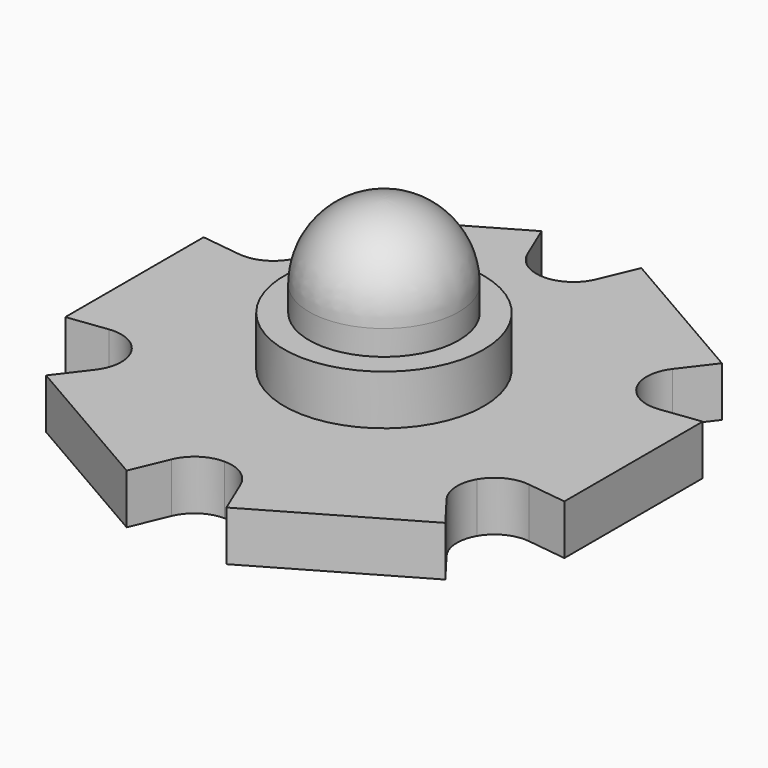
from build123d import *

# Parameters (mm, degrees)
F1_DEPTH = 2
F2_R     = 4
F3_DEPTH = 2


with BuildPart() as f1:
    # F0 (on Top) → F1 (new body)
    with BuildSketch(Plane.XY):
        with BuildLine():
            ThreePointArc((-1.383542, -8.920507), (-0.830891, -8.251153), (0, -8))
            ThreePointArc((0, -8), (0.830891, -8.251153), (1.383542, -8.920507))
            Line((1.383542, -8.920507), (2, -10.392305))
            Line((2, -10.392305), (8, -6.928203))
            Line((8, -6.928203), (7.033615, -5.658436))
            ThreePointArc((7.033615, -5.658436), (6.730262, -4.84515), (6.928203, -4))
            ThreePointArc((6.928203, -4), (7.561154, -3.406003), (8.417157, -3.262071))
            Line((8.417157, -3.262071), (10, -3.464102))
            Line((10, -3.464102), (10, 3.464102))
            Line((10, 3.464102), (8.417157, 3.262071))
            ThreePointArc((8.417157, 3.262071), (7.561154, 3.406003), (6.928203, 4))
            ThreePointArc((6.928203, 4), (6.730262, 4.84515), (7.033615, 5.658436))
            Line((7.033615, 5.658436), (8, 6.928203))
            Line((8, 6.928203), (2, 10.392305))
            Line((2, 10.392305), (1.383542, 8.920507))
            ThreePointArc((1.383542, 8.920507), (0.830891, 8.251153), (0, 8))
            ThreePointArc((0, 8), (-0.830891, 8.251153), (-1.383542, 8.920507))
            Line((-1.383542, 8.920507), (-2, 10.392305))
            Line((-2, 10.392305), (-8, 6.928203))
            Line((-8, 6.928203), (-7.033615, 5.658436))
            ThreePointArc((-7.033615, 5.658436), (-6.730262, 4.84515), (-6.928203, 4))
            ThreePointArc((-6.928203, 4), (-7.561154, 3.406003), (-8.417157, 3.262071))
            Line((-8.417157, 3.262071), (-10, 3.464102))
            Line((-10, 3.464102), (-10, -3.464102))
            Line((-10, -3.464102), (-8.417157, -3.262071))
            ThreePointArc((-8.417157, -3.262071), (-7.561154, -3.406003), (-6.928203, -4))
            ThreePointArc((-6.928203, -4), (-6.730262, -4.84515), (-7.033615, -5.658436))
            Line((-7.033615, -5.658436), (-8, -6.928203))
            Line((-8, -6.928203), (-2, -10.392305))
            Line((-2, -10.392305), (-1.383542, -8.920507))
        make_face()
    extrude(amount=F1_DEPTH)

    # F2 (on face) → F3 (join)
    with BuildSketch(Plane.XY.offset(2)):
        Circle(F2_R)
    extrude(amount=F3_DEPTH)

    # F4 (on Front) → F5 (revolve)
    with BuildSketch(Plane.XZ):
        with BuildLine():
            Line((3, 4), (3, 5))
            ThreePointArc((3, 5), (2.12132, 7.12132), (0, 8))
            Line((0, 8), (0, 4))
            Line((0, 4), (3, 4))
        make_face()
    revolve(axis=Axis((0, 0, 6), (0, 0, 1)))


solid = f1.part
